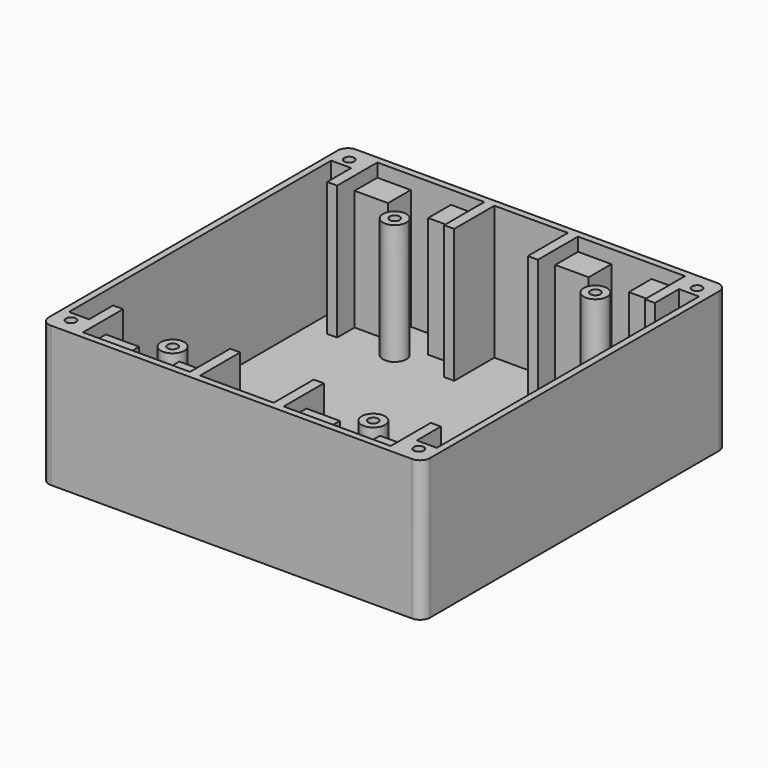
from build123d import *

# Parameters (mm, degrees)
F0_W     = 114
F0_H     = 114
F0_W_2   = 6
F0_H_2   = 6
F0_R     = 1.5
F1_DEPTH = 42
F0_R_2   = 3.5
F2_DEPTH = 38
F0_W_3   = 10
F0_H_3   = 8.5
F3_DEPTH = 2
F4_DEPTH = 2
F5_R     = 3


with BuildPart() as f1:
    # F0 (on Top) → F1 (new body)
    with BuildSketch(Plane.XY):
        Rectangle(F0_W, F0_H)
        Polygon((49, 55), (55, 55), (55, 49), (55, -49), (55, -55), (49, -55), (46, -55), (36, -55), (24, -55), (14, -55), (11, -55), (-11, -55), (-14, -55), (-24, -55), (-36, -55), (-46, -55), (-49, -55), (-55, -55), (-55, -49), (-55, 49), (-55, 55), (-49, 55), (-46, 55), (-36, 55), (-24, 55), (-14, 55), (-11, 55), (11, 55), (14, 55), (24, 55), (36, 55), (46, 55), align=None, mode=Mode.SUBTRACT)
        Polygon((-11, 40), (-11, 55), (-14, 55), (-14, 46.5), (-14, 40), align=None)
        Polygon((14, 46.5), (14, 55), (11, 55), (11, 40), (14, 40), align=None)
        Polygon((49, 49), (49, 55), (46, 55), (46, 46.5), (46, 40), (49, 40), align=None)
        Polygon((-46, 46.5), (-46, 55), (-49, 55), (-49, 49), (-49, 40), (-46, 40), align=None)
        Polygon((-49, -55), (-46, -55), (-46, -46.5), (-46, -40), (-49, -40), (-49, -49), align=None)
        Polygon((-14, -55), (-11, -55), (-11, -40), (-14, -40), (-14, -46.5), align=None)
        Polygon((11, -55), (14, -55), (14, -46.5), (14, -40), (11, -40), align=None)
        Polygon((49, -55), (49, -49), (49, -40), (46, -40), (46, -46.5), (46, -55), align=None)
        with Locations((-52, 52)):
            Rectangle(F0_W_2, F0_H_2)
        with Locations((-52, 52)):
            Circle(F0_R, mode=Mode.SUBTRACT)
        with Locations((52, 52)):
            Rectangle(F0_W_2, F0_H_2)
        with Locations((52, 52)):
            Circle(F0_R, mode=Mode.SUBTRACT)
        with Locations((52, -52)):
            Rectangle(F0_W_2, F0_H_2)
        with Locations((52, -52)):
            Circle(F0_R, mode=Mode.SUBTRACT)
        with Locations((-52, -52)):
            Rectangle(F0_W_2, F0_H_2)
        with Locations((-52, -52)):
            Circle(F0_R, mode=Mode.SUBTRACT)
    extrude(amount=F1_DEPTH)

    # F0 (on Top) → F2, piece 5 (join)
    with BuildSketch(Plane.XY):
        with Locations((-41, 50.75)):
            Rectangle(F0_W_3, F0_H_3)
        with Locations((-19, 50.75)):
            Rectangle(F0_W_3, F0_H_3)
        with Locations((19, 50.75)):
            Rectangle(F0_W_3, F0_H_3)
        with Locations((41, 50.75)):
            Rectangle(F0_W_3, F0_H_3)
        with Locations((-19, -50.75)):
            Rectangle(F0_W_3, F0_H_3)
        with Locations((-41, -50.75)):
            Rectangle(F0_W_3, F0_H_3)
        with Locations((19, -50.75)):
            Rectangle(F0_W_3, F0_H_3)
        with Locations((41, -50.75)):
            Rectangle(F0_W_3, F0_H_3)
    extrude(amount=F2_DEPTH)

    # F0 (on Top) → F3 (join)
    with BuildSketch(Plane.XY):
        with Locations((52, 52)):
            Rectangle(F0_W_2, F0_H_2)
        with Locations((52, 52)):
            Circle(F0_R, mode=Mode.SUBTRACT)
        with Locations((52, -52)):
            Rectangle(F0_W_2, F0_H_2)
        with Locations((52, -52)):
            Circle(F0_R, mode=Mode.SUBTRACT)
    extrude(amount=F3_DEPTH)



with BuildPart() as f2:
    # F0 (on Top) → F2 (new body)
    with BuildSketch(Plane.XY):
        with Locations((-30, 41.5)):
            Circle(F0_R_2)
        with Locations((-30, 41.5)):
            Circle(F0_R, mode=Mode.SUBTRACT)
    extrude(amount=F2_DEPTH)


with BuildPart() as f2b:
    # F0 (on Top) → F2, piece 2 (new body)
    with BuildSketch(Plane.XY):
        with Locations((30, 41.5)):
            Circle(F0_R_2)
        with Locations((30, 41.5)):
            Circle(F0_R, mode=Mode.SUBTRACT)
    extrude(amount=F2_DEPTH)


with BuildPart() as f2c:
    # F0 (on Top) → F2, piece 3 (new body)
    with BuildSketch(Plane.XY):
        with Locations((30, -41.5)):
            Circle(F0_R_2)
        with Locations((30, -41.5)):
            Circle(F0_R, mode=Mode.SUBTRACT)
    extrude(amount=F2_DEPTH)


with BuildPart() as f2d:
    # F0 (on Top) → F2, piece 4 (new body)
    with BuildSketch(Plane.XY):
        with Locations((-30, -41.5)):
            Circle(F0_R_2)
        with Locations((-30, -41.5)):
            Circle(F0_R, mode=Mode.SUBTRACT)
    extrude(amount=F2_DEPTH)


with BuildPart() as f1_1:
    add(f1.part)

    add(f2.part)  # F4 merges F2

    add(f2b.part)  # F4 merges F2b

    add(f2c.part)  # F4 merges F2c

    add(f2d.part)  # F4 merges F2d
    # F0 (on Top) → F4 (join)
    with BuildSketch(Plane.XY):
        Polygon((55, -49), (55, 49), (49, 49), (49, 40), (46, 40), (46, 46.5), (36, 46.5), (36, 55), (24, 55), (24, 46.5), (14, 46.5), (14, 40), (11, 40), (11, 55), (-11, 55), (-11, 40), (-14, 40), (-14, 46.5), (-24, 46.5), (-24, 55), (-36, 55), (-36, 46.5), (-46, 46.5), (-46, 40), (-49, 40), (-49, 49), (-55, 49), (-55, -49), (-49, -49), (-49, -40), (-46, -40), (-46, -46.5), (-36, -46.5), (-36, -55), (-24, -55), (-24, -46.5), (-14, -46.5), (-14, -40), (-11, -40), (-11, -55), (11, -55), (11, -40), (14, -40), (14, -46.5), (24, -46.5), (24, -55), (36, -55), (36, -46.5), (46, -46.5), (46, -40), (49, -40), (49, -49), align=None)
        with Locations((-30, -41.5)):
            Circle(F0_R_2, mode=Mode.SUBTRACT)
        with Locations((30, -41.5)):
            Circle(F0_R_2, mode=Mode.SUBTRACT)
        with Locations((-30, 41.5)):
            Circle(F0_R_2, mode=Mode.SUBTRACT)
        with Locations((30, 41.5)):
            Circle(F0_R_2, mode=Mode.SUBTRACT)
        with Locations((-52, 52)):
            Circle(F0_R)
        with Locations((-30, 41.5)):
            Circle(F0_R)
        with Locations((30, 41.5)):
            Circle(F0_R)
        with Locations((52, 52)):
            Circle(F0_R)
        with Locations((-52, -52)):
            Circle(F0_R)
        with Locations((-30, -41.5)):
            Circle(F0_R)
        with Locations((30, -41.5)):
            Circle(F0_R)
        with Locations((52, -52)):
            Circle(F0_R)
    extrude(amount=F4_DEPTH)

    # F5
    f5_edges = [f1_1.edges().sort_by_distance(p)[0] for p in [
        (-57, 57, 21),
        (57, 57, 21),
        (-57, -57, 21),
        (57, -57, 21),
    ]]
    fillet(f5_edges, radius=F5_R)


solid = f1_1.part
